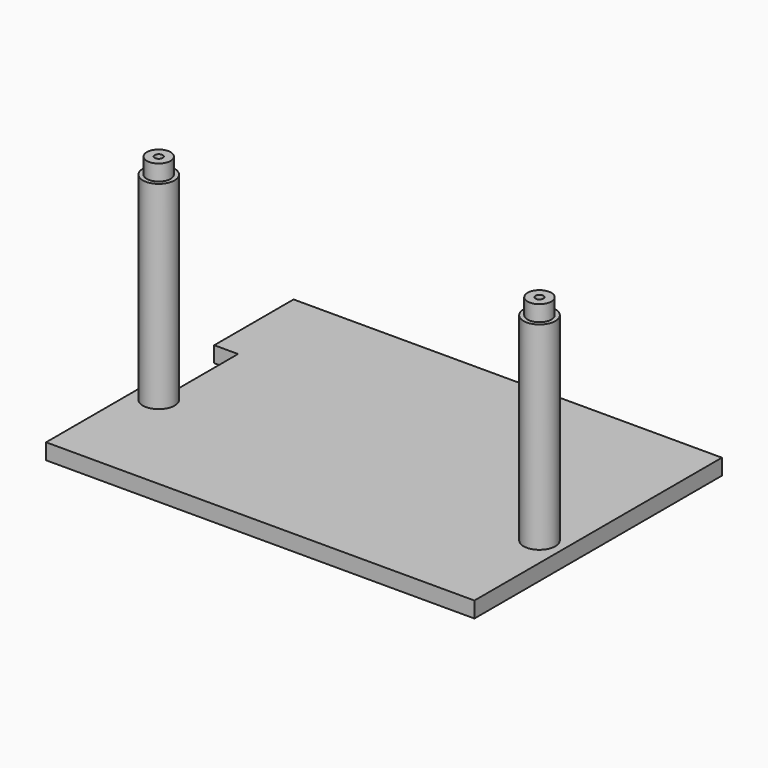
from build123d import *

# Parameters (mm, degrees)
PAD_DEPTH       = 2
SKETCH001_R     = 2
PAD001_DEPTH    = 25
SKETCH002_R     = 1.5
PAD002_DEPTH    = 2
SKETCH003_R     = 1.5
PAD003_DEPTH    = 2
SKETCH004_R     = 0.5
POCKET_DEPTH    = 5
SKETCH005_R     = 0.5
POCKET001_DEPTH = 5


with BuildPart() as part:
    # Sketch → Pad (new body)
    with BuildSketch(Plane.XY):
        Polygon((0, 39), (54, 39), (54, 0), (0, 0), (0, 16.5), (3, 16.5), (3, 26.5), (0, 26.5), align=None)
    extrude(amount=PAD_DEPTH)

    # Sketch001 (on Face10 of Pad) → Pad001 (join)
    with BuildSketch(Plane.XY.offset(2)):
        with Locations((3, 14)):
            Circle(SKETCH001_R)
        with Locations((51, 14)):
            Circle(SKETCH001_R)
    extrude(amount=PAD001_DEPTH)

    # Sketch002 (on Face13 of Pad001) → Pad002 (join)
    with BuildSketch(Plane.XY.offset(27)):
        with Locations((3, 14)):
            Circle(SKETCH002_R)
    extrude(amount=PAD002_DEPTH)

    # Sketch003 (on Face14 of Pad002) → Pad003 (join)
    with BuildSketch(Plane.XY.offset(27)):
        with Locations((51, 14)):
            Circle(SKETCH003_R)
    extrude(amount=PAD003_DEPTH)

    # Sketch004 (on Face17 of Pad003) → Pocket (cut)
    with BuildSketch(Plane.XY.offset(29)):
        with Locations((3, 14)):
            Circle(SKETCH004_R)
    extrude(amount=-POCKET_DEPTH, mode=Mode.SUBTRACT)

    # Sketch005 (on Face18 of Pocket) → Pocket001 (cut)
    with BuildSketch(Plane.XY.offset(29)):
        with Locations((51, 14)):
            Circle(SKETCH005_R)
    extrude(amount=-POCKET001_DEPTH, mode=Mode.SUBTRACT)


solid = part.part
